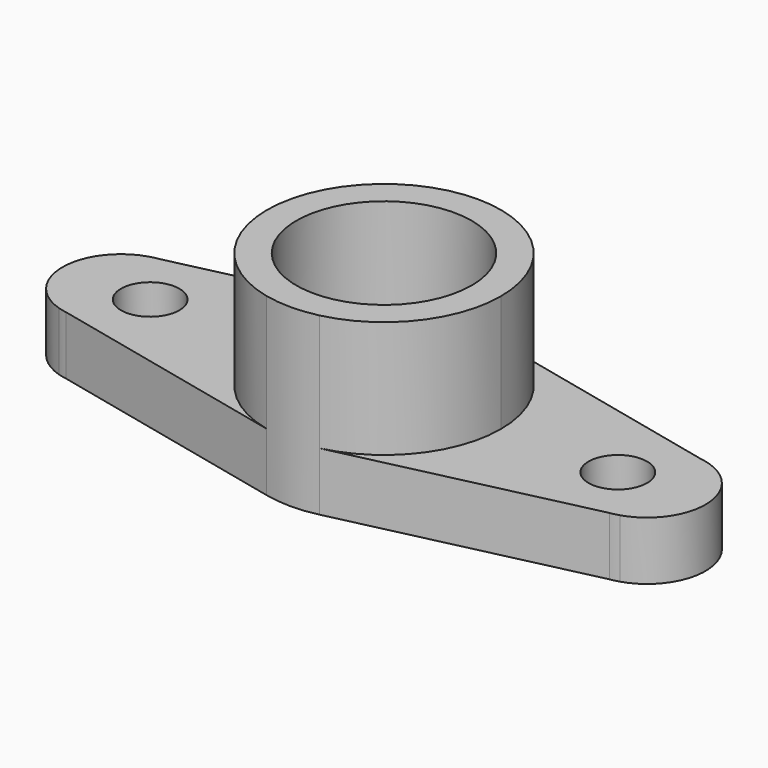
from build123d import *

# Parameters (mm, degrees)
F1_DEPTH  = 10
F2_R      = 5
F3_DEPTH  = 10.001
F2_R_2    = 15
F4_DEPTH  = 20
F4_FACE_R = 15
F5_DEPTH  = 5


with BuildPart() as f1:
    # F0 (on Top) → F1 (new body)
    with BuildSketch(Plane.XY):
        with BuildLine():
            Line((47.974863, -9.547261), (46.469416, -9.891452))
            ThreePointArc((46.469416, -9.891452), (47.228793, -9.74846), (47.974863, -9.547261))
        make_face()
        with BuildLine():
            Line((4.561589, -19.472851), (46.469416, -9.891452))
            Line((46.469416, -9.891452), (47.974863, -9.547261))
            ThreePointArc((47.974863, -9.547261), (55, 0), (47.974863, 9.547261))
            Line((47.974863, 9.547261), (46.469416, 9.891452))
            Line((46.469416, 9.891452), (4.561589, 19.472851))
            ThreePointArc((4.561589, 19.472851), (0, 20), (-4.561589, 19.472851))
            Line((-4.561589, 19.472851), (-46.469416, 9.891452))
            Line((-46.469416, 9.891452), (-47.974863, 9.547261))
            ThreePointArc((-47.974863, 9.547261), (-55, 0), (-47.974863, -9.547261))
            Line((-47.974863, -9.547261), (-46.469416, -9.891452))
            Line((-46.469416, -9.891452), (-4.561589, -19.472851))
            ThreePointArc((-4.561589, -19.472851), (0, -20), (4.561589, -19.472851))
        make_face()
        with BuildLine():
            Line((46.469416, 9.891452), (47.974863, 9.547261))
            ThreePointArc((47.974863, 9.547261), (47.228793, 9.74846), (46.469416, 9.891452))
        make_face()
        with BuildLine():
            ThreePointArc((-47.974863, -9.547261), (-47.228793, -9.74846), (-46.469416, -9.891452))
            Line((-46.469416, -9.891452), (-47.974863, -9.547261))
        make_face()
        with BuildLine():
            ThreePointArc((-46.469416, 9.891452), (-47.228793, 9.74846), (-47.974863, 9.547261))
            Line((-47.974863, 9.547261), (-46.469416, 9.891452))
        make_face()
    extrude(amount=F1_DEPTH)

    # F2 (on face) → F3 (cut, through all)
    with BuildSketch(Plane.XY.offset(10)):
        with Locations((-40, 0)):
            Circle(F2_R)
        with Locations((40, 0)):
            Circle(F2_R)
    extrude(amount=-F3_DEPTH, mode=Mode.SUBTRACT)

    # F2 (on face) → F4 (join)
    with BuildSketch(Plane.XY.offset(10)):
        with BuildLine():
            ThreePointArc((4.561589, -19.472851), (15.672137, -12.42514), (20, 0))
            ThreePointArc((20, 0), (15.672137, 12.42514), (4.561589, 19.472851))
            ThreePointArc((4.561589, 19.472851), (0, 20), (-4.561589, 19.472851))
            ThreePointArc((-4.561589, 19.472851), (-20, 0), (-4.561589, -19.472851))
            ThreePointArc((-4.561589, -19.472851), (0, -20), (4.561589, -19.472851))
        make_face()
        Circle(F2_R_2, mode=Mode.SUBTRACT)
    extrude(amount=F4_DEPTH)

    # F4_face (on face) → F5 (cut, symmetric)
    with BuildSketch(Plane.XY.offset(10)):
        Circle(F4_FACE_R)
    extrude(amount=F5_DEPTH, both=True, mode=Mode.SUBTRACT)


solid = f1.part
